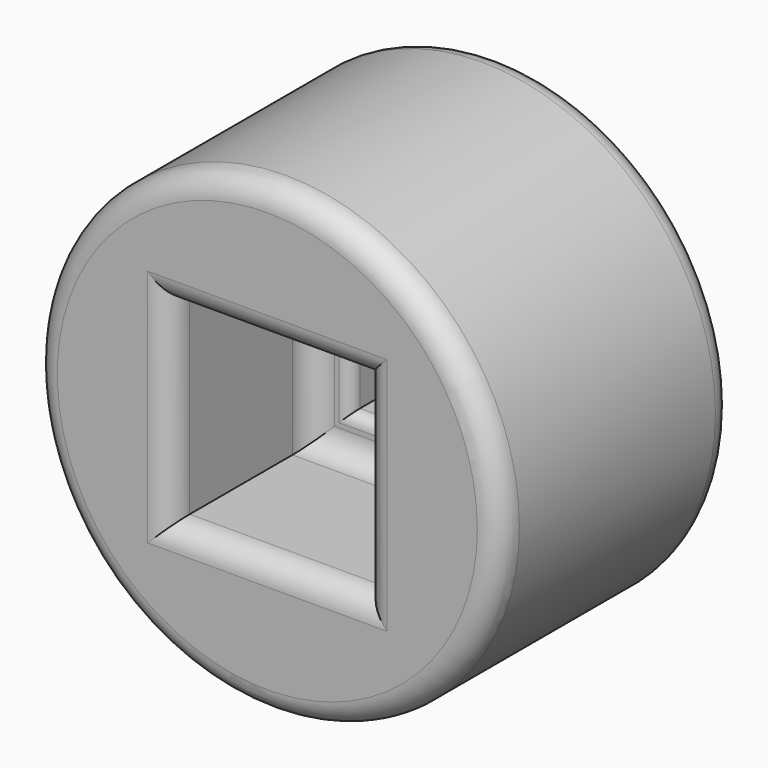
from build123d import *

# Parameters (mm, degrees)
F0_R     = 20
F1_DEPTH = 25
F2_W     = 16.5
F2_H     = 16.5
F3_DEPTH = 15
F4_W     = 9.7
F4_H     = 9.7
F5_DEPTH = 25
F6_R     = 2
F7_R     = 1


with BuildPart() as f1:
    # F0 (on Front) → F1 (new body)
    with BuildSketch(Plane.XZ):
        Circle(F0_R)
    extrude(amount=F1_DEPTH)

    # F2 (on face) → F3 (cut)
    with BuildSketch(Plane.XZ.offset(25)):
        Rectangle(F2_W, F2_H)
    extrude(amount=-F3_DEPTH, mode=Mode.SUBTRACT)

    # F4 (on face) → F5 (cut)
    with BuildSketch(Plane(origin=(0, 0, 0), x_dir=(-1, 0, 0), z_dir=(0, 1, 0))):
        Rectangle(F4_W, F4_H)
    extrude(amount=-F5_DEPTH, mode=Mode.SUBTRACT)

    # F6
    f6_edges = [f1.edges().sort_by_distance(p)[0] for p in [
        (0, -10, -8.25),
        (-8.25, -10, 0),
        (8.25, -10, 0),
        (0, -10, 8.25),
        (-20, -25, 0),
        (0, -25, 8.25),
        (-8.25, -25, 0),
        (0, -25, -8.25),
        (8.25, -25, 0),
        (-20, 0, 0),
        (-4.85, 0, 0),
        (0, 0, -4.85),
        (4.85, 0, 0),
        (0, 0, 4.85),
    ]]
    fillet(f6_edges, radius=F6_R)

    # F7
    f7_edges = [f1.edges().sort_by_distance(p)[0] for p in [
        (0, -10, -4.85),
        (-4.85, -10, 0),
        (0, -10, 4.85),
        (4.85, -10, 0),
    ]]
    fillet(f7_edges, radius=F7_R)


solid = f1.part
